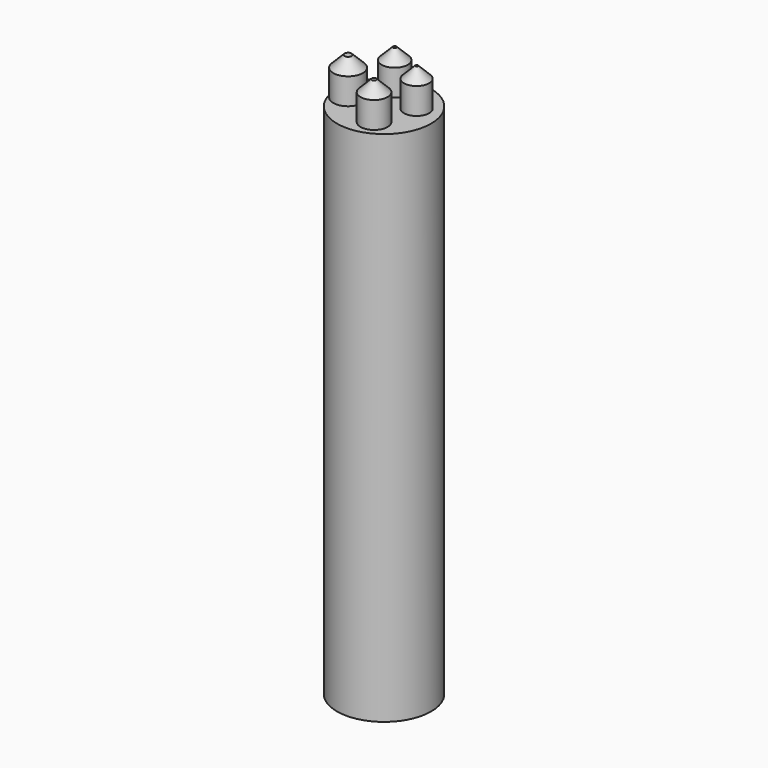
from build123d import *

# Parameters (mm, degrees)
F0_R     = 6.35
F1_DEPTH = 63.5
F3_R     = 6.35
F4_DEPTH = 6.35
F5_D     = 6.35
F5_DEPTH = 63.5
F5_TIP   = 1.9077324654
F6_R     = 1.7663179958
F6_R_2   = 1.7000002335
F6_R_3   = 1.8274467347
F6_R_4   = 2.00164436
F7_DEPTH = 5.08
F8_SIZE  = 1.524


with BuildPart() as f1:
    # F0 (on Top) → F1 (new body)
    with BuildSketch(Plane.XY):
        with Locations((-23.0151098222, -49.1751506925)):
            Circle(F0_R)
    extrude(amount=F1_DEPTH)

    # F3 (on face) → F4 (join)
    with BuildSketch(Plane.XY.offset(63.5)):
        with Locations((-23.0151098222, -49.1751506925)):
            Circle(F3_R)
    extrude(amount=F4_DEPTH)

    # F5 (one way)
    with BuildSketch(Plane.XY.offset(63.5)):
        with Locations((-23.0151098222, -49.1751506925)):
            Circle(F5_D / 2)
    extrude(amount=-F5_DEPTH, mode=Mode.SUBTRACT)
    with Locations(Plane.XY.offset(63.5)):
        with Locations((-23.0151098222, -49.1751506925)):
            with Locations((0, 0, -(F5_DEPTH + F5_TIP / 2))):  # 118° drill point
                Cone(0, F5_D / 2, F5_TIP, mode=Mode.SUBTRACT)

    # F6 (on face) → F7 (join)
    with BuildSketch(Plane.XY.offset(69.85)):
        with Locations((-24.4727507234, -45.552957803)):
            Circle(F6_R)
        with Locations((-20.0130287558, -47.4362969398)):
            Circle(F6_R_2)
        with Locations((-21.5983316302, -52.6342540979)):
            Circle(F6_R_3)
        with Locations((-27.2251553833, -49.9814078212)):
            Circle(F6_R_4)
    extrude(amount=F7_DEPTH)

    # F8
    f8_edges = [f1.edges().sort_by_distance(p)[0] for p in [
        (-29.2268, -49.981408, 74.93),
        (-26.239069, -45.552958, 74.93),
        (-21.713029, -47.436297, 74.93),
        (-23.425778, -52.634254, 74.93),
    ]]
    chamfer(f8_edges, length=F8_SIZE)


solid = f1.part
